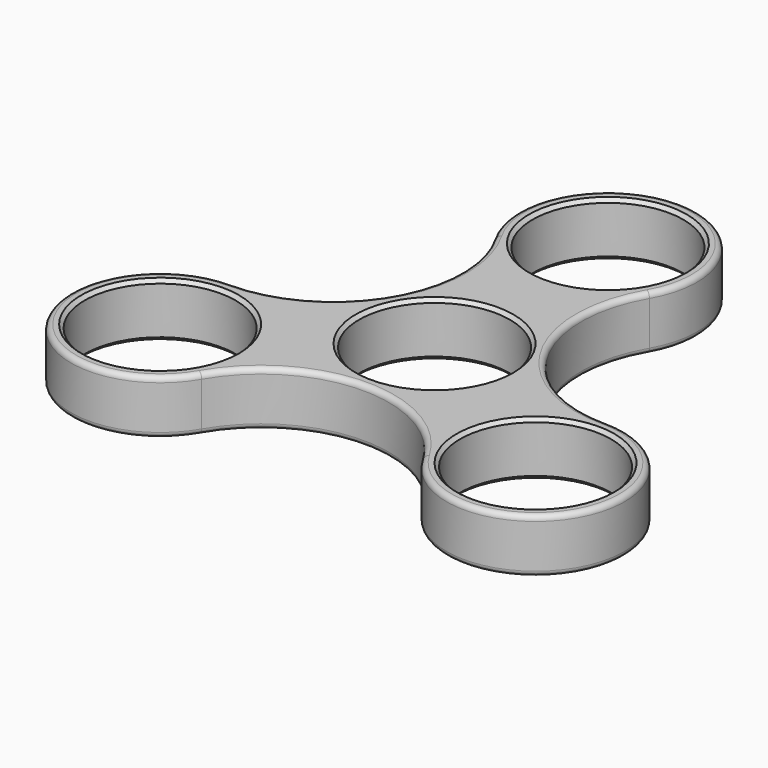
from build123d import *

# Parameters (mm, degrees)
F0_R     = 11.05
F1_DEPTH = 7.9248
F2_SIZE  = 0.508
F3_R     = 0.762


with BuildPart() as f1:
    # F0 (on Top) → F1 (new body)
    with BuildSketch(Plane.XY):
        with BuildLine():
            ThreePointArc((27.496307, -2.825), (11.301632, 6.525), (11.301632, 25.225))
            ThreePointArc((11.301632, 25.225), (0, 44.8), (-11.301632, 25.225))
            ThreePointArc((-11.301632, 25.225), (-11.301632, 6.525), (-27.496307, -2.825))
            ThreePointArc((-27.496307, -2.825), (-38.797938, -22.4), (-16.194675, -22.4))
            ThreePointArc((-16.194675, -22.4), (0, -13.05), (16.194675, -22.4))
            ThreePointArc((16.194675, -22.4), (38.797938, -22.4), (27.496307, -2.825))
        make_face()
        with Locations((-27.496307, -15.875)):
            Circle(F0_R, mode=Mode.SUBTRACT)
        with Locations((27.496307, -15.875)):
            Circle(F0_R, mode=Mode.SUBTRACT)
        Circle(F0_R, mode=Mode.SUBTRACT)
        with Locations((0, 31.75)):
            Circle(F0_R, mode=Mode.SUBTRACT)
    extrude(amount=-F1_DEPTH)

    # F2
    f2_edges = [f1.edges().sort_by_distance(p)[0] for p in [
        (16.446307, -15.875, -7.9248),
        (16.446307, -15.875, 0),
        (-38.546307, -15.875, -7.9248),
        (-38.546307, -15.875, 0),
        (-11.05, 0, 0),
        (-11.05, 0, -7.9248),
        (-11.05, 31.75, -7.9248),
        (-11.05, 31.75, 0),
    ]]
    chamfer(f2_edges, length=F2_SIZE)

    # F3
    f3_edges = [f1.edges().sort_by_distance(p)[0] for p in [
        (-11.301632, 6.525, 0),
        (0, -13.05, -7.9248),
    ]]
    fillet(f3_edges, radius=F3_R)


solid = f1.part
